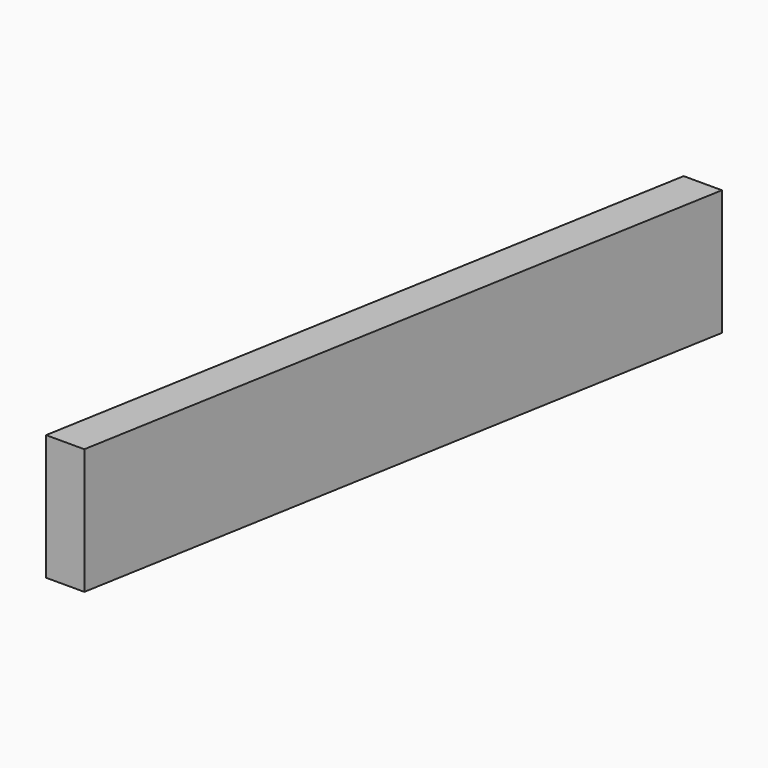
from build123d import *

# Parameters (mm, degrees)
F1_DEPTH = 203.2
F2_W     = 845.32512
F2_H     = 298.843749
F2_W_2   = 330.2
F2_H_2   = 63.5
F3_DEPTH = 151.081499


with BuildPart() as f1:
    # F0 (on Top) → F1 (new body)
    with BuildSketch(Plane.XY):
        Polygon((-132.319911, -548.157636), (0, 202.265872), (-18.760588, 205.57387), (-151.080499, -544.849638), align=None)
    extrude(amount=F1_DEPTH)

    # F2 (on Right) → F3 (cut, through all)
    with BuildSketch(Plane.YZ):
        with Locations((-172.568742, 98.621874)):
            Rectangle(F2_W, F2_H)
        with Locations((-227.68702, 44.45)):
            Rectangle(F2_W_2, F2_H_2, mode=Mode.SUBTRACT)
    extrude(amount=-F3_DEPTH, mode=Mode.SUBTRACT)


solid = f1.part
